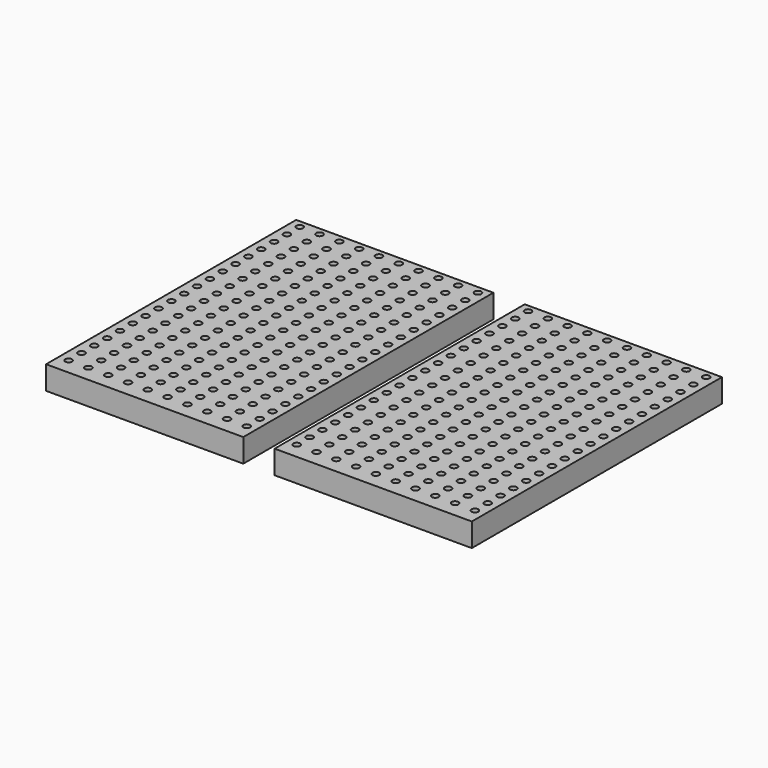
from build123d import *

# Parameters (mm, degrees)
F0_W     = 25.231471
F0_H     = 40
F0_R     = 0.433058
F1_DEPTH = 3


with BuildPart() as f1:
    # F0 (on Top) → F1 (new body)
    with BuildSketch(Plane.XY):
        with Locations((-14.619643, 0)):
            Rectangle(F0_W, F0_H)
        with Locations((-25.987821, -17.951125)):
            Circle(F0_R, mode=Mode.SUBTRACT)
        with Locations((-23.454758, -17.950583)):
            Circle(F0_R, mode=Mode.SUBTRACT)
        with Locations((-20.921694, -17.950041)):
            Circle(F0_R, mode=Mode.SUBTRACT)
        with Locations((-25.988504, -15.896807)):
            Circle(F0_R, mode=Mode.SUBTRACT)
        with Locations((-23.455441, -15.896265)):
            Circle(F0_R, mode=Mode.SUBTRACT)
        with Locations((-20.922378, -15.895723)):
            Circle(F0_R, mode=Mode.SUBTRACT)
        with Locations((-18.388631, -17.949499)):
            Circle(F0_R, mode=Mode.SUBTRACT)
        with Locations((-15.855567, -17.948957)):
            Circle(F0_R, mode=Mode.SUBTRACT)
        with Locations((-18.389314, -15.895181)):
            Circle(F0_R, mode=Mode.SUBTRACT)
        with Locations((-15.856251, -15.894639)):
            Circle(F0_R, mode=Mode.SUBTRACT)
        with Locations((-25.989188, -13.842489)):
            Circle(F0_R, mode=Mode.SUBTRACT)
        with Locations((-23.456124, -13.841947)):
            Circle(F0_R, mode=Mode.SUBTRACT)
        with Locations((-20.923061, -13.841405)):
            Circle(F0_R, mode=Mode.SUBTRACT)
        with Locations((-25.989871, -11.788171)):
            Circle(F0_R, mode=Mode.SUBTRACT)
        with Locations((-23.456808, -11.787629)):
            Circle(F0_R, mode=Mode.SUBTRACT)
        with Locations((-20.923744, -11.787087)):
            Circle(F0_R, mode=Mode.SUBTRACT)
        with Locations((-18.389998, -13.840863)):
            Circle(F0_R, mode=Mode.SUBTRACT)
        with Locations((-15.856934, -13.840321)):
            Circle(F0_R, mode=Mode.SUBTRACT)
        with Locations((-18.390681, -11.786545)):
            Circle(F0_R, mode=Mode.SUBTRACT)
        with Locations((-15.857618, -11.786003)):
            Circle(F0_R, mode=Mode.SUBTRACT)
        with Locations((-13.322504, -17.948415)):
            Circle(F0_R, mode=Mode.SUBTRACT)
        with Locations((-10.78944, -17.947873)):
            Circle(F0_R, mode=Mode.SUBTRACT)
        with Locations((-8.256377, -17.947331)):
            Circle(F0_R, mode=Mode.SUBTRACT)
        with Locations((-13.323187, -15.894097)):
            Circle(F0_R, mode=Mode.SUBTRACT)
        with Locations((-10.790124, -15.893555)):
            Circle(F0_R, mode=Mode.SUBTRACT)
        with Locations((-8.25706, -15.893013)):
            Circle(F0_R, mode=Mode.SUBTRACT)
        with Locations((-5.723313, -17.946789)):
            Circle(F0_R, mode=Mode.SUBTRACT)
        with Locations((-3.19025, -17.946247)):
            Circle(F0_R, mode=Mode.SUBTRACT)
        with Locations((-5.723997, -15.892471)):
            Circle(F0_R, mode=Mode.SUBTRACT)
        with Locations((-3.190933, -15.891929)):
            Circle(F0_R, mode=Mode.SUBTRACT)
        with Locations((-13.323871, -13.839779)):
            Circle(F0_R, mode=Mode.SUBTRACT)
        with Locations((-10.790807, -13.839237)):
            Circle(F0_R, mode=Mode.SUBTRACT)
        with Locations((-8.257744, -13.838695)):
            Circle(F0_R, mode=Mode.SUBTRACT)
        with Locations((-13.324554, -11.785461)):
            Circle(F0_R, mode=Mode.SUBTRACT)
        with Locations((-10.791491, -11.784919)):
            Circle(F0_R, mode=Mode.SUBTRACT)
        with Locations((-8.258427, -11.784377)):
            Circle(F0_R, mode=Mode.SUBTRACT)
        with Locations((-5.72468, -13.838153)):
            Circle(F0_R, mode=Mode.SUBTRACT)
        with Locations((-3.191617, -13.837611)):
            Circle(F0_R, mode=Mode.SUBTRACT)
        with Locations((-5.725364, -11.783835)):
            Circle(F0_R, mode=Mode.SUBTRACT)
        with Locations((-3.1923, -11.783293)):
            Circle(F0_R, mode=Mode.SUBTRACT)
        with Locations((-25.990555, -9.733854)):
            Circle(F0_R, mode=Mode.SUBTRACT)
        with Locations((-25.991238, -7.679536)):
            Circle(F0_R, mode=Mode.SUBTRACT)
        with Locations((-23.457491, -9.733311)):
            Circle(F0_R, mode=Mode.SUBTRACT)
        with Locations((-20.924428, -9.732769)):
            Circle(F0_R, mode=Mode.SUBTRACT)
        with Locations((-23.458175, -7.678994)):
            Circle(F0_R, mode=Mode.SUBTRACT)
        with Locations((-20.925111, -7.678451)):
            Circle(F0_R, mode=Mode.SUBTRACT)
        with Locations((-25.991922, -5.625218)):
            Circle(F0_R, mode=Mode.SUBTRACT)
        with Locations((-23.458858, -5.624676)):
            Circle(F0_R, mode=Mode.SUBTRACT)
        with Locations((-20.925795, -5.624134)):
            Circle(F0_R, mode=Mode.SUBTRACT)
        with Locations((-18.391364, -9.732227)):
            Circle(F0_R, mode=Mode.SUBTRACT)
        with Locations((-18.392048, -7.677909)):
            Circle(F0_R, mode=Mode.SUBTRACT)
        with Locations((-15.858301, -9.731685)):
            Circle(F0_R, mode=Mode.SUBTRACT)
        with Locations((-15.858984, -7.677367)):
            Circle(F0_R, mode=Mode.SUBTRACT)
        with Locations((-18.392731, -5.623591)):
            Circle(F0_R, mode=Mode.SUBTRACT)
        with Locations((-15.859668, -5.623049)):
            Circle(F0_R, mode=Mode.SUBTRACT)
        with Locations((-25.992605, -3.5709)):
            Circle(F0_R, mode=Mode.SUBTRACT)
        with Locations((-23.459542, -3.570358)):
            Circle(F0_R, mode=Mode.SUBTRACT)
        with Locations((-20.926478, -3.569816)):
            Circle(F0_R, mode=Mode.SUBTRACT)
        with Locations((-25.993289, -1.516582)):
            Circle(F0_R, mode=Mode.SUBTRACT)
        with Locations((-23.460225, -1.51604)):
            Circle(F0_R, mode=Mode.SUBTRACT)
        with Locations((-20.927162, -1.515498)):
            Circle(F0_R, mode=Mode.SUBTRACT)
        with Locations((-18.393415, -3.569274)):
            Circle(F0_R, mode=Mode.SUBTRACT)
        with Locations((-15.860351, -3.568731)):
            Circle(F0_R, mode=Mode.SUBTRACT)
        with Locations((-18.394098, -1.514956)):
            Circle(F0_R, mode=Mode.SUBTRACT)
        with Locations((-15.861035, -1.514414)):
            Circle(F0_R, mode=Mode.SUBTRACT)
        with Locations((-13.325238, -9.731143)):
            Circle(F0_R, mode=Mode.SUBTRACT)
        with Locations((-10.792174, -9.730601)):
            Circle(F0_R, mode=Mode.SUBTRACT)
        with Locations((-13.325921, -7.676825)):
            Circle(F0_R, mode=Mode.SUBTRACT)
        with Locations((-10.792858, -7.676283)):
            Circle(F0_R, mode=Mode.SUBTRACT)
        with Locations((-8.259111, -9.730059)):
            Circle(F0_R, mode=Mode.SUBTRACT)
        with Locations((-8.259794, -7.675741)):
            Circle(F0_R, mode=Mode.SUBTRACT)
        with Locations((-13.326604, -5.622507)):
            Circle(F0_R, mode=Mode.SUBTRACT)
        with Locations((-10.793541, -5.621965)):
            Circle(F0_R, mode=Mode.SUBTRACT)
        with Locations((-8.260478, -5.621423)):
            Circle(F0_R, mode=Mode.SUBTRACT)
        with Locations((-5.726047, -9.729517)):
            Circle(F0_R, mode=Mode.SUBTRACT)
        with Locations((-5.726731, -7.675199)):
            Circle(F0_R, mode=Mode.SUBTRACT)
        with Locations((-3.192984, -9.728975)):
            Circle(F0_R, mode=Mode.SUBTRACT)
        with Locations((-3.193667, -7.674657)):
            Circle(F0_R, mode=Mode.SUBTRACT)
        with Locations((-5.727414, -5.620881)):
            Circle(F0_R, mode=Mode.SUBTRACT)
        with Locations((-3.194351, -5.620339)):
            Circle(F0_R, mode=Mode.SUBTRACT)
        with Locations((-13.327288, -3.568189)):
            Circle(F0_R, mode=Mode.SUBTRACT)
        with Locations((-10.794224, -3.567647)):
            Circle(F0_R, mode=Mode.SUBTRACT)
        with Locations((-8.261161, -3.567105)):
            Circle(F0_R, mode=Mode.SUBTRACT)
        with Locations((-13.327971, -1.513871)):
            Circle(F0_R, mode=Mode.SUBTRACT)
        with Locations((-10.794908, -1.513329)):
            Circle(F0_R, mode=Mode.SUBTRACT)
        with Locations((-8.261844, -1.512787)):
            Circle(F0_R, mode=Mode.SUBTRACT)
        with Locations((-5.728098, -3.566563)):
            Circle(F0_R, mode=Mode.SUBTRACT)
        with Locations((-3.195034, -3.566021)):
            Circle(F0_R, mode=Mode.SUBTRACT)
        with Locations((-5.728781, -1.512245)):
            Circle(F0_R, mode=Mode.SUBTRACT)
        with Locations((-3.195718, -1.511703)):
            Circle(F0_R, mode=Mode.SUBTRACT)
        with Locations((-25.993972, 0.537736)):
            Circle(F0_R, mode=Mode.SUBTRACT)
        with Locations((-23.460909, 0.538278)):
            Circle(F0_R, mode=Mode.SUBTRACT)
        with Locations((-20.927845, 0.53882)):
            Circle(F0_R, mode=Mode.SUBTRACT)
        with Locations((-25.994656, 2.592054)):
            Circle(F0_R, mode=Mode.SUBTRACT)
        with Locations((-25.995339, 4.646372)):
            Circle(F0_R, mode=Mode.SUBTRACT)
        with Locations((-23.461592, 2.592596)):
            Circle(F0_R, mode=Mode.SUBTRACT)
        with Locations((-20.928529, 2.593138)):
            Circle(F0_R, mode=Mode.SUBTRACT)
        with Locations((-23.462276, 4.646914)):
            Circle(F0_R, mode=Mode.SUBTRACT)
        with Locations((-20.929212, 4.647456)):
            Circle(F0_R, mode=Mode.SUBTRACT)
        with Locations((-18.394782, 0.539362)):
            Circle(F0_R, mode=Mode.SUBTRACT)
        with Locations((-15.861718, 0.539904)):
            Circle(F0_R, mode=Mode.SUBTRACT)
        with Locations((-18.395465, 2.59368)):
            Circle(F0_R, mode=Mode.SUBTRACT)
        with Locations((-18.396149, 4.647998)):
            Circle(F0_R, mode=Mode.SUBTRACT)
        with Locations((-15.862402, 2.594222)):
            Circle(F0_R, mode=Mode.SUBTRACT)
        with Locations((-15.863085, 4.64854)):
            Circle(F0_R, mode=Mode.SUBTRACT)
        with Locations((-25.996023, 6.70069)):
            Circle(F0_R, mode=Mode.SUBTRACT)
        with Locations((-23.462959, 6.701232)):
            Circle(F0_R, mode=Mode.SUBTRACT)
        with Locations((-20.929896, 6.701774)):
            Circle(F0_R, mode=Mode.SUBTRACT)
        with Locations((-25.996706, 8.755008)):
            Circle(F0_R, mode=Mode.SUBTRACT)
        with Locations((-23.463643, 8.75555)):
            Circle(F0_R, mode=Mode.SUBTRACT)
        with Locations((-20.930579, 8.756092)):
            Circle(F0_R, mode=Mode.SUBTRACT)
        with Locations((-18.396832, 6.702316)):
            Circle(F0_R, mode=Mode.SUBTRACT)
        with Locations((-15.863769, 6.702858)):
            Circle(F0_R, mode=Mode.SUBTRACT)
        with Locations((-18.397516, 8.756634)):
            Circle(F0_R, mode=Mode.SUBTRACT)
        with Locations((-15.864452, 8.757176)):
            Circle(F0_R, mode=Mode.SUBTRACT)
        with Locations((-13.328655, 0.540446)):
            Circle(F0_R, mode=Mode.SUBTRACT)
        with Locations((-10.795591, 0.540989)):
            Circle(F0_R, mode=Mode.SUBTRACT)
        with Locations((-8.262528, 0.541531)):
            Circle(F0_R, mode=Mode.SUBTRACT)
        with Locations((-13.329338, 2.594764)):
            Circle(F0_R, mode=Mode.SUBTRACT)
        with Locations((-10.796275, 2.595306)):
            Circle(F0_R, mode=Mode.SUBTRACT)
        with Locations((-13.330022, 4.649082)):
            Circle(F0_R, mode=Mode.SUBTRACT)
        with Locations((-10.796958, 4.649624)):
            Circle(F0_R, mode=Mode.SUBTRACT)
        with Locations((-8.263211, 2.595849)):
            Circle(F0_R, mode=Mode.SUBTRACT)
        with Locations((-8.263895, 4.650166)):
            Circle(F0_R, mode=Mode.SUBTRACT)
        with Locations((-5.729464, 0.542073)):
            Circle(F0_R, mode=Mode.SUBTRACT)
        with Locations((-3.196401, 0.542615)):
            Circle(F0_R, mode=Mode.SUBTRACT)
        with Locations((-5.730148, 2.596391)):
            Circle(F0_R, mode=Mode.SUBTRACT)
        with Locations((-5.730831, 4.650709)):
            Circle(F0_R, mode=Mode.SUBTRACT)
        with Locations((-3.197084, 2.596933)):
            Circle(F0_R, mode=Mode.SUBTRACT)
        with Locations((-3.197768, 4.651251)):
            Circle(F0_R, mode=Mode.SUBTRACT)
        with Locations((-13.330705, 6.7034)):
            Circle(F0_R, mode=Mode.SUBTRACT)
        with Locations((-10.797642, 6.703942)):
            Circle(F0_R, mode=Mode.SUBTRACT)
        with Locations((-8.264578, 6.704484)):
            Circle(F0_R, mode=Mode.SUBTRACT)
        with Locations((-13.331389, 8.757718)):
            Circle(F0_R, mode=Mode.SUBTRACT)
        with Locations((-10.798325, 8.75826)):
            Circle(F0_R, mode=Mode.SUBTRACT)
        with Locations((-8.265262, 8.758802)):
            Circle(F0_R, mode=Mode.SUBTRACT)
        with Locations((-5.731515, 6.705026)):
            Circle(F0_R, mode=Mode.SUBTRACT)
        with Locations((-3.198451, 6.705569)):
            Circle(F0_R, mode=Mode.SUBTRACT)
        with Locations((-5.732198, 8.759344)):
            Circle(F0_R, mode=Mode.SUBTRACT)
        with Locations((-3.199135, 8.759886)):
            Circle(F0_R, mode=Mode.SUBTRACT)
        with Locations((-25.99739, 10.809326)):
            Circle(F0_R, mode=Mode.SUBTRACT)
        with Locations((-23.464326, 10.809868)):
            Circle(F0_R, mode=Mode.SUBTRACT)
        with Locations((-20.931263, 10.81041)):
            Circle(F0_R, mode=Mode.SUBTRACT)
        with Locations((-25.998073, 12.863644)):
            Circle(F0_R, mode=Mode.SUBTRACT)
        with Locations((-25.998757, 14.917962)):
            Circle(F0_R, mode=Mode.SUBTRACT)
        with Locations((-23.46501, 12.864186)):
            Circle(F0_R, mode=Mode.SUBTRACT)
        with Locations((-20.931946, 12.864728)):
            Circle(F0_R, mode=Mode.SUBTRACT)
        with Locations((-23.465693, 14.918504)):
            Circle(F0_R, mode=Mode.SUBTRACT)
        with Locations((-20.93263, 14.919046)):
            Circle(F0_R, mode=Mode.SUBTRACT)
        with Locations((-18.398199, 10.810952)):
            Circle(F0_R, mode=Mode.SUBTRACT)
        with Locations((-15.865136, 10.811494)):
            Circle(F0_R, mode=Mode.SUBTRACT)
        with Locations((-18.398883, 12.86527)):
            Circle(F0_R, mode=Mode.SUBTRACT)
        with Locations((-18.399566, 14.919588)):
            Circle(F0_R, mode=Mode.SUBTRACT)
        with Locations((-15.865819, 12.865812)):
            Circle(F0_R, mode=Mode.SUBTRACT)
        with Locations((-15.866503, 14.92013)):
            Circle(F0_R, mode=Mode.SUBTRACT)
        with Locations((-25.99944, 16.97228)):
            Circle(F0_R, mode=Mode.SUBTRACT)
        with Locations((-23.466377, 16.972822)):
            Circle(F0_R, mode=Mode.SUBTRACT)
        with Locations((-20.933313, 16.973364)):
            Circle(F0_R, mode=Mode.SUBTRACT)
        with Locations((-26.000123, 19.026598)):
            Circle(F0_R, mode=Mode.SUBTRACT)
        with Locations((-23.46706, 19.02714)):
            Circle(F0_R, mode=Mode.SUBTRACT)
        with Locations((-20.933997, 19.027682)):
            Circle(F0_R, mode=Mode.SUBTRACT)
        with Locations((-18.40025, 16.973906)):
            Circle(F0_R, mode=Mode.SUBTRACT)
        with Locations((-15.867186, 16.974448)):
            Circle(F0_R, mode=Mode.SUBTRACT)
        with Locations((-18.400933, 19.028224)):
            Circle(F0_R, mode=Mode.SUBTRACT)
        with Locations((-15.86787, 19.028766)):
            Circle(F0_R, mode=Mode.SUBTRACT)
        with Locations((-13.332072, 10.812036)):
            Circle(F0_R, mode=Mode.SUBTRACT)
        with Locations((-10.799009, 10.812578)):
            Circle(F0_R, mode=Mode.SUBTRACT)
        with Locations((-8.265945, 10.81312)):
            Circle(F0_R, mode=Mode.SUBTRACT)
        with Locations((-13.332756, 12.866354)):
            Circle(F0_R, mode=Mode.SUBTRACT)
        with Locations((-10.799692, 12.866896)):
            Circle(F0_R, mode=Mode.SUBTRACT)
        with Locations((-13.333439, 14.920672)):
            Circle(F0_R, mode=Mode.SUBTRACT)
        with Locations((-10.800376, 14.921214)):
            Circle(F0_R, mode=Mode.SUBTRACT)
        with Locations((-8.266629, 12.867438)):
            Circle(F0_R, mode=Mode.SUBTRACT)
        with Locations((-8.267312, 14.921756)):
            Circle(F0_R, mode=Mode.SUBTRACT)
        with Locations((-5.732882, 10.813662)):
            Circle(F0_R, mode=Mode.SUBTRACT)
        with Locations((-3.199818, 10.814204)):
            Circle(F0_R, mode=Mode.SUBTRACT)
        with Locations((-5.733565, 12.86798)):
            Circle(F0_R, mode=Mode.SUBTRACT)
        with Locations((-5.734249, 14.922298)):
            Circle(F0_R, mode=Mode.SUBTRACT)
        with Locations((-3.200502, 12.868522)):
            Circle(F0_R, mode=Mode.SUBTRACT)
        with Locations((-3.201185, 14.92284)):
            Circle(F0_R, mode=Mode.SUBTRACT)
        with Locations((-13.334123, 16.97499)):
            Circle(F0_R, mode=Mode.SUBTRACT)
        with Locations((-10.801059, 16.975532)):
            Circle(F0_R, mode=Mode.SUBTRACT)
        with Locations((-8.267996, 16.976074)):
            Circle(F0_R, mode=Mode.SUBTRACT)
        with Locations((-13.334806, 19.029308)):
            Circle(F0_R, mode=Mode.SUBTRACT)
        with Locations((-10.801743, 19.02985)):
            Circle(F0_R, mode=Mode.SUBTRACT)
        with Locations((-8.268679, 19.030392)):
            Circle(F0_R, mode=Mode.SUBTRACT)
        with Locations((-5.734932, 16.976616)):
            Circle(F0_R, mode=Mode.SUBTRACT)
        with Locations((-3.201869, 16.977158)):
            Circle(F0_R, mode=Mode.SUBTRACT)
        with Locations((-5.735616, 19.030934)):
            Circle(F0_R, mode=Mode.SUBTRACT)
        with Locations((-3.202552, 19.031476)):
            Circle(F0_R, mode=Mode.SUBTRACT)
        with Locations((14.619643, 0)):
            Rectangle(F0_W, F0_H)
        with Locations((3.19025, -17.946247)):
            Circle(F0_R, mode=Mode.SUBTRACT)
        with Locations((5.723313, -17.946789)):
            Circle(F0_R, mode=Mode.SUBTRACT)
        with Locations((3.190933, -15.891929)):
            Circle(F0_R, mode=Mode.SUBTRACT)
        with Locations((5.723997, -15.892471)):
            Circle(F0_R, mode=Mode.SUBTRACT)
        with Locations((8.256377, -17.947331)):
            Circle(F0_R, mode=Mode.SUBTRACT)
        with Locations((10.78944, -17.947873)):
            Circle(F0_R, mode=Mode.SUBTRACT)
        with Locations((13.322504, -17.948415)):
            Circle(F0_R, mode=Mode.SUBTRACT)
        with Locations((8.25706, -15.893013)):
            Circle(F0_R, mode=Mode.SUBTRACT)
        with Locations((10.790124, -15.893555)):
            Circle(F0_R, mode=Mode.SUBTRACT)
        with Locations((13.323187, -15.894097)):
            Circle(F0_R, mode=Mode.SUBTRACT)
        with Locations((3.191617, -13.837611)):
            Circle(F0_R, mode=Mode.SUBTRACT)
        with Locations((5.72468, -13.838153)):
            Circle(F0_R, mode=Mode.SUBTRACT)
        with Locations((3.1923, -11.783293)):
            Circle(F0_R, mode=Mode.SUBTRACT)
        with Locations((5.725364, -11.783835)):
            Circle(F0_R, mode=Mode.SUBTRACT)
        with Locations((8.257744, -13.838695)):
            Circle(F0_R, mode=Mode.SUBTRACT)
        with Locations((10.790807, -13.839237)):
            Circle(F0_R, mode=Mode.SUBTRACT)
        with Locations((13.323871, -13.839779)):
            Circle(F0_R, mode=Mode.SUBTRACT)
        with Locations((8.258427, -11.784377)):
            Circle(F0_R, mode=Mode.SUBTRACT)
        with Locations((10.791491, -11.784919)):
            Circle(F0_R, mode=Mode.SUBTRACT)
        with Locations((13.324554, -11.785461)):
            Circle(F0_R, mode=Mode.SUBTRACT)
        with Locations((15.855567, -17.948957)):
            Circle(F0_R, mode=Mode.SUBTRACT)
        with Locations((18.388631, -17.949499)):
            Circle(F0_R, mode=Mode.SUBTRACT)
        with Locations((15.856251, -15.894639)):
            Circle(F0_R, mode=Mode.SUBTRACT)
        with Locations((18.389314, -15.895181)):
            Circle(F0_R, mode=Mode.SUBTRACT)
        with Locations((20.921694, -17.950041)):
            Circle(F0_R, mode=Mode.SUBTRACT)
        with Locations((23.454758, -17.950583)):
            Circle(F0_R, mode=Mode.SUBTRACT)
        with Locations((25.987821, -17.951125)):
            Circle(F0_R, mode=Mode.SUBTRACT)
        with Locations((20.922378, -15.895723)):
            Circle(F0_R, mode=Mode.SUBTRACT)
        with Locations((23.455441, -15.896265)):
            Circle(F0_R, mode=Mode.SUBTRACT)
        with Locations((25.988504, -15.896807)):
            Circle(F0_R, mode=Mode.SUBTRACT)
        with Locations((15.856934, -13.840321)):
            Circle(F0_R, mode=Mode.SUBTRACT)
        with Locations((18.389998, -13.840863)):
            Circle(F0_R, mode=Mode.SUBTRACT)
        with Locations((15.857618, -11.786003)):
            Circle(F0_R, mode=Mode.SUBTRACT)
        with Locations((18.390681, -11.786545)):
            Circle(F0_R, mode=Mode.SUBTRACT)
        with Locations((20.923061, -13.841405)):
            Circle(F0_R, mode=Mode.SUBTRACT)
        with Locations((23.456124, -13.841947)):
            Circle(F0_R, mode=Mode.SUBTRACT)
        with Locations((25.989188, -13.842489)):
            Circle(F0_R, mode=Mode.SUBTRACT)
        with Locations((20.923744, -11.787087)):
            Circle(F0_R, mode=Mode.SUBTRACT)
        with Locations((23.456808, -11.787629)):
            Circle(F0_R, mode=Mode.SUBTRACT)
        with Locations((25.989871, -11.788171)):
            Circle(F0_R, mode=Mode.SUBTRACT)
        with Locations((3.192984, -9.728975)):
            Circle(F0_R, mode=Mode.SUBTRACT)
        with Locations((3.193667, -7.674657)):
            Circle(F0_R, mode=Mode.SUBTRACT)
        with Locations((5.726047, -9.729517)):
            Circle(F0_R, mode=Mode.SUBTRACT)
        with Locations((5.726731, -7.675199)):
            Circle(F0_R, mode=Mode.SUBTRACT)
        with Locations((3.194351, -5.620339)):
            Circle(F0_R, mode=Mode.SUBTRACT)
        with Locations((5.727414, -5.620881)):
            Circle(F0_R, mode=Mode.SUBTRACT)
        with Locations((8.259111, -9.730059)):
            Circle(F0_R, mode=Mode.SUBTRACT)
        with Locations((8.259794, -7.675741)):
            Circle(F0_R, mode=Mode.SUBTRACT)
        with Locations((10.792174, -9.730601)):
            Circle(F0_R, mode=Mode.SUBTRACT)
        with Locations((13.325238, -9.731143)):
            Circle(F0_R, mode=Mode.SUBTRACT)
        with Locations((10.792858, -7.676283)):
            Circle(F0_R, mode=Mode.SUBTRACT)
        with Locations((13.325921, -7.676825)):
            Circle(F0_R, mode=Mode.SUBTRACT)
        with Locations((8.260478, -5.621423)):
            Circle(F0_R, mode=Mode.SUBTRACT)
        with Locations((10.793541, -5.621965)):
            Circle(F0_R, mode=Mode.SUBTRACT)
        with Locations((13.326604, -5.622507)):
            Circle(F0_R, mode=Mode.SUBTRACT)
        with Locations((3.195034, -3.566021)):
            Circle(F0_R, mode=Mode.SUBTRACT)
        with Locations((5.728098, -3.566563)):
            Circle(F0_R, mode=Mode.SUBTRACT)
        with Locations((3.195718, -1.511703)):
            Circle(F0_R, mode=Mode.SUBTRACT)
        with Locations((5.728781, -1.512245)):
            Circle(F0_R, mode=Mode.SUBTRACT)
        with Locations((8.261161, -3.567105)):
            Circle(F0_R, mode=Mode.SUBTRACT)
        with Locations((10.794224, -3.567647)):
            Circle(F0_R, mode=Mode.SUBTRACT)
        with Locations((13.327288, -3.568189)):
            Circle(F0_R, mode=Mode.SUBTRACT)
        with Locations((8.261844, -1.512787)):
            Circle(F0_R, mode=Mode.SUBTRACT)
        with Locations((10.794908, -1.513329)):
            Circle(F0_R, mode=Mode.SUBTRACT)
        with Locations((13.327971, -1.513871)):
            Circle(F0_R, mode=Mode.SUBTRACT)
        with Locations((15.858301, -9.731685)):
            Circle(F0_R, mode=Mode.SUBTRACT)
        with Locations((15.858984, -7.677367)):
            Circle(F0_R, mode=Mode.SUBTRACT)
        with Locations((18.391364, -9.732227)):
            Circle(F0_R, mode=Mode.SUBTRACT)
        with Locations((18.392048, -7.677909)):
            Circle(F0_R, mode=Mode.SUBTRACT)
        with Locations((15.859668, -5.623049)):
            Circle(F0_R, mode=Mode.SUBTRACT)
        with Locations((18.392731, -5.623591)):
            Circle(F0_R, mode=Mode.SUBTRACT)
        with Locations((20.924428, -9.732769)):
            Circle(F0_R, mode=Mode.SUBTRACT)
        with Locations((23.457491, -9.733311)):
            Circle(F0_R, mode=Mode.SUBTRACT)
        with Locations((20.925111, -7.678451)):
            Circle(F0_R, mode=Mode.SUBTRACT)
        with Locations((23.458175, -7.678994)):
            Circle(F0_R, mode=Mode.SUBTRACT)
        with Locations((25.990555, -9.733854)):
            Circle(F0_R, mode=Mode.SUBTRACT)
        with Locations((25.991238, -7.679536)):
            Circle(F0_R, mode=Mode.SUBTRACT)
        with Locations((20.925795, -5.624134)):
            Circle(F0_R, mode=Mode.SUBTRACT)
        with Locations((23.458858, -5.624676)):
            Circle(F0_R, mode=Mode.SUBTRACT)
        with Locations((25.991922, -5.625218)):
            Circle(F0_R, mode=Mode.SUBTRACT)
        with Locations((15.860351, -3.568731)):
            Circle(F0_R, mode=Mode.SUBTRACT)
        with Locations((18.393415, -3.569274)):
            Circle(F0_R, mode=Mode.SUBTRACT)
        with Locations((15.861035, -1.514414)):
            Circle(F0_R, mode=Mode.SUBTRACT)
        with Locations((18.394098, -1.514956)):
            Circle(F0_R, mode=Mode.SUBTRACT)
        with Locations((20.926478, -3.569816)):
            Circle(F0_R, mode=Mode.SUBTRACT)
        with Locations((23.459542, -3.570358)):
            Circle(F0_R, mode=Mode.SUBTRACT)
        with Locations((25.992605, -3.5709)):
            Circle(F0_R, mode=Mode.SUBTRACT)
        with Locations((20.927162, -1.515498)):
            Circle(F0_R, mode=Mode.SUBTRACT)
        with Locations((23.460225, -1.51604)):
            Circle(F0_R, mode=Mode.SUBTRACT)
        with Locations((25.993289, -1.516582)):
            Circle(F0_R, mode=Mode.SUBTRACT)
        with Locations((3.196401, 0.542615)):
            Circle(F0_R, mode=Mode.SUBTRACT)
        with Locations((5.729464, 0.542073)):
            Circle(F0_R, mode=Mode.SUBTRACT)
        with Locations((3.197084, 2.596933)):
            Circle(F0_R, mode=Mode.SUBTRACT)
        with Locations((3.197768, 4.651251)):
            Circle(F0_R, mode=Mode.SUBTRACT)
        with Locations((5.730148, 2.596391)):
            Circle(F0_R, mode=Mode.SUBTRACT)
        with Locations((5.730831, 4.650709)):
            Circle(F0_R, mode=Mode.SUBTRACT)
        with Locations((8.262528, 0.541531)):
            Circle(F0_R, mode=Mode.SUBTRACT)
        with Locations((10.795591, 0.540989)):
            Circle(F0_R, mode=Mode.SUBTRACT)
        with Locations((13.328655, 0.540446)):
            Circle(F0_R, mode=Mode.SUBTRACT)
        with Locations((8.263211, 2.595849)):
            Circle(F0_R, mode=Mode.SUBTRACT)
        with Locations((8.263895, 4.650166)):
            Circle(F0_R, mode=Mode.SUBTRACT)
        with Locations((10.796275, 2.595306)):
            Circle(F0_R, mode=Mode.SUBTRACT)
        with Locations((13.329338, 2.594764)):
            Circle(F0_R, mode=Mode.SUBTRACT)
        with Locations((10.796958, 4.649624)):
            Circle(F0_R, mode=Mode.SUBTRACT)
        with Locations((13.330022, 4.649082)):
            Circle(F0_R, mode=Mode.SUBTRACT)
        with Locations((3.198451, 6.705569)):
            Circle(F0_R, mode=Mode.SUBTRACT)
        with Locations((5.731515, 6.705026)):
            Circle(F0_R, mode=Mode.SUBTRACT)
        with Locations((3.199135, 8.759886)):
            Circle(F0_R, mode=Mode.SUBTRACT)
        with Locations((5.732198, 8.759344)):
            Circle(F0_R, mode=Mode.SUBTRACT)
        with Locations((8.264578, 6.704484)):
            Circle(F0_R, mode=Mode.SUBTRACT)
        with Locations((10.797642, 6.703942)):
            Circle(F0_R, mode=Mode.SUBTRACT)
        with Locations((13.330705, 6.7034)):
            Circle(F0_R, mode=Mode.SUBTRACT)
        with Locations((8.265262, 8.758802)):
            Circle(F0_R, mode=Mode.SUBTRACT)
        with Locations((10.798325, 8.75826)):
            Circle(F0_R, mode=Mode.SUBTRACT)
        with Locations((13.331389, 8.757718)):
            Circle(F0_R, mode=Mode.SUBTRACT)
        with Locations((15.861718, 0.539904)):
            Circle(F0_R, mode=Mode.SUBTRACT)
        with Locations((18.394782, 0.539362)):
            Circle(F0_R, mode=Mode.SUBTRACT)
        with Locations((15.862402, 2.594222)):
            Circle(F0_R, mode=Mode.SUBTRACT)
        with Locations((15.863085, 4.64854)):
            Circle(F0_R, mode=Mode.SUBTRACT)
        with Locations((18.395465, 2.59368)):
            Circle(F0_R, mode=Mode.SUBTRACT)
        with Locations((18.396149, 4.647998)):
            Circle(F0_R, mode=Mode.SUBTRACT)
        with Locations((20.927845, 0.53882)):
            Circle(F0_R, mode=Mode.SUBTRACT)
        with Locations((23.460909, 0.538278)):
            Circle(F0_R, mode=Mode.SUBTRACT)
        with Locations((25.993972, 0.537736)):
            Circle(F0_R, mode=Mode.SUBTRACT)
        with Locations((20.928529, 2.593138)):
            Circle(F0_R, mode=Mode.SUBTRACT)
        with Locations((23.461592, 2.592596)):
            Circle(F0_R, mode=Mode.SUBTRACT)
        with Locations((20.929212, 4.647456)):
            Circle(F0_R, mode=Mode.SUBTRACT)
        with Locations((23.462276, 4.646914)):
            Circle(F0_R, mode=Mode.SUBTRACT)
        with Locations((25.994656, 2.592054)):
            Circle(F0_R, mode=Mode.SUBTRACT)
        with Locations((25.995339, 4.646372)):
            Circle(F0_R, mode=Mode.SUBTRACT)
        with Locations((15.863769, 6.702858)):
            Circle(F0_R, mode=Mode.SUBTRACT)
        with Locations((18.396832, 6.702316)):
            Circle(F0_R, mode=Mode.SUBTRACT)
        with Locations((15.864452, 8.757176)):
            Circle(F0_R, mode=Mode.SUBTRACT)
        with Locations((18.397516, 8.756634)):
            Circle(F0_R, mode=Mode.SUBTRACT)
        with Locations((20.929896, 6.701774)):
            Circle(F0_R, mode=Mode.SUBTRACT)
        with Locations((23.462959, 6.701232)):
            Circle(F0_R, mode=Mode.SUBTRACT)
        with Locations((25.996023, 6.70069)):
            Circle(F0_R, mode=Mode.SUBTRACT)
        with Locations((20.930579, 8.756092)):
            Circle(F0_R, mode=Mode.SUBTRACT)
        with Locations((23.463643, 8.75555)):
            Circle(F0_R, mode=Mode.SUBTRACT)
        with Locations((25.996706, 8.755008)):
            Circle(F0_R, mode=Mode.SUBTRACT)
        with Locations((3.199818, 10.814204)):
            Circle(F0_R, mode=Mode.SUBTRACT)
        with Locations((5.732882, 10.813662)):
            Circle(F0_R, mode=Mode.SUBTRACT)
        with Locations((3.200502, 12.868522)):
            Circle(F0_R, mode=Mode.SUBTRACT)
        with Locations((3.201185, 14.92284)):
            Circle(F0_R, mode=Mode.SUBTRACT)
        with Locations((5.733565, 12.86798)):
            Circle(F0_R, mode=Mode.SUBTRACT)
        with Locations((5.734249, 14.922298)):
            Circle(F0_R, mode=Mode.SUBTRACT)
        with Locations((8.265945, 10.81312)):
            Circle(F0_R, mode=Mode.SUBTRACT)
        with Locations((10.799009, 10.812578)):
            Circle(F0_R, mode=Mode.SUBTRACT)
        with Locations((13.332072, 10.812036)):
            Circle(F0_R, mode=Mode.SUBTRACT)
        with Locations((8.266629, 12.867438)):
            Circle(F0_R, mode=Mode.SUBTRACT)
        with Locations((8.267312, 14.921756)):
            Circle(F0_R, mode=Mode.SUBTRACT)
        with Locations((10.799692, 12.866896)):
            Circle(F0_R, mode=Mode.SUBTRACT)
        with Locations((13.332756, 12.866354)):
            Circle(F0_R, mode=Mode.SUBTRACT)
        with Locations((10.800376, 14.921214)):
            Circle(F0_R, mode=Mode.SUBTRACT)
        with Locations((13.333439, 14.920672)):
            Circle(F0_R, mode=Mode.SUBTRACT)
        with Locations((3.201869, 16.977158)):
            Circle(F0_R, mode=Mode.SUBTRACT)
        with Locations((5.734932, 16.976616)):
            Circle(F0_R, mode=Mode.SUBTRACT)
        with Locations((3.202552, 19.031476)):
            Circle(F0_R, mode=Mode.SUBTRACT)
        with Locations((5.735616, 19.030934)):
            Circle(F0_R, mode=Mode.SUBTRACT)
        with Locations((8.267996, 16.976074)):
            Circle(F0_R, mode=Mode.SUBTRACT)
        with Locations((10.801059, 16.975532)):
            Circle(F0_R, mode=Mode.SUBTRACT)
        with Locations((13.334123, 16.97499)):
            Circle(F0_R, mode=Mode.SUBTRACT)
        with Locations((8.268679, 19.030392)):
            Circle(F0_R, mode=Mode.SUBTRACT)
        with Locations((10.801743, 19.02985)):
            Circle(F0_R, mode=Mode.SUBTRACT)
        with Locations((13.334806, 19.029308)):
            Circle(F0_R, mode=Mode.SUBTRACT)
        with Locations((15.865136, 10.811494)):
            Circle(F0_R, mode=Mode.SUBTRACT)
        with Locations((18.398199, 10.810952)):
            Circle(F0_R, mode=Mode.SUBTRACT)
        with Locations((15.865819, 12.865812)):
            Circle(F0_R, mode=Mode.SUBTRACT)
        with Locations((15.866503, 14.92013)):
            Circle(F0_R, mode=Mode.SUBTRACT)
        with Locations((18.398883, 12.86527)):
            Circle(F0_R, mode=Mode.SUBTRACT)
        with Locations((18.399566, 14.919588)):
            Circle(F0_R, mode=Mode.SUBTRACT)
        with Locations((20.931263, 10.81041)):
            Circle(F0_R, mode=Mode.SUBTRACT)
        with Locations((23.464326, 10.809868)):
            Circle(F0_R, mode=Mode.SUBTRACT)
        with Locations((25.99739, 10.809326)):
            Circle(F0_R, mode=Mode.SUBTRACT)
        with Locations((20.931946, 12.864728)):
            Circle(F0_R, mode=Mode.SUBTRACT)
        with Locations((23.46501, 12.864186)):
            Circle(F0_R, mode=Mode.SUBTRACT)
        with Locations((20.93263, 14.919046)):
            Circle(F0_R, mode=Mode.SUBTRACT)
        with Locations((23.465693, 14.918504)):
            Circle(F0_R, mode=Mode.SUBTRACT)
        with Locations((25.998073, 12.863644)):
            Circle(F0_R, mode=Mode.SUBTRACT)
        with Locations((25.998757, 14.917962)):
            Circle(F0_R, mode=Mode.SUBTRACT)
        with Locations((15.867186, 16.974448)):
            Circle(F0_R, mode=Mode.SUBTRACT)
        with Locations((18.40025, 16.973906)):
            Circle(F0_R, mode=Mode.SUBTRACT)
        with Locations((15.86787, 19.028766)):
            Circle(F0_R, mode=Mode.SUBTRACT)
        with Locations((18.400933, 19.028224)):
            Circle(F0_R, mode=Mode.SUBTRACT)
        with Locations((20.933313, 16.973364)):
            Circle(F0_R, mode=Mode.SUBTRACT)
        with Locations((23.466377, 16.972822)):
            Circle(F0_R, mode=Mode.SUBTRACT)
        with Locations((25.99944, 16.97228)):
            Circle(F0_R, mode=Mode.SUBTRACT)
        with Locations((20.933997, 19.027682)):
            Circle(F0_R, mode=Mode.SUBTRACT)
        with Locations((23.46706, 19.02714)):
            Circle(F0_R, mode=Mode.SUBTRACT)
        with Locations((26.000123, 19.026598)):
            Circle(F0_R, mode=Mode.SUBTRACT)
    extrude(amount=F1_DEPTH)


solid = f1.part
